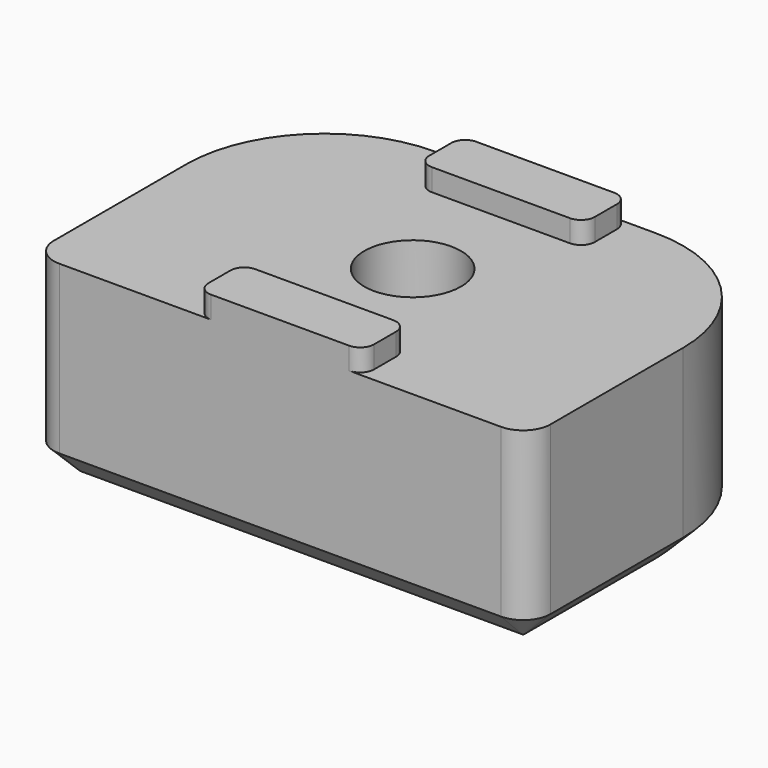
from build123d import *

# Parameters (mm, degrees)
SKETCH_R     = 1.75
PAD_DEPTH    = 7
PAD001_DEPTH = 0.8
SKETCH002_R  = 3
POCKET_DEPTH = 4.4
SKETCH003_R  = 3
SKETCH003_W  = 3.5
SKETCH003_H  = 3.5
PAD002_DEPTH = 0.2
PAD003_DEPTH = 0.2
CHAMFER_SIZE = 0.95


with BuildPart() as part:
    # Sketch → Pad (new body)
    with BuildSketch(Plane.XY):
        with BuildLine():
            Line((18, 1), (18, 7))
            ThreePointArc((18, 7), (16.535534, 10.535534), (13, 12))
            Line((13, 12), (5, 12))
            ThreePointArc((5, 12), (1.464466, 10.535534), (0, 7))
            Line((0, 7), (0, 1))
            ThreePointArc((0, 1), (0.292893, 0.292893), (1, 0))
            Line((1, 0), (17, 0))
            ThreePointArc((17, 0), (17.707107, 0.292893), (18, 1))
        make_face()
        with Locations((9, 6)):
            Circle(SKETCH_R, mode=Mode.SUBTRACT)
    extrude(amount=PAD_DEPTH)

    # Sketch001 (on Face11 of Pad) → Pad001 (join)
    with BuildSketch(Plane.XY.offset(7)):
        with BuildLine():
            Line((6, 11.5), (6, 10.5))
            ThreePointArc((6, 10.5), (6.146447, 10.146447), (6.5, 10))
            Line((6.5, 10), (11.5, 10))
            ThreePointArc((11.5, 10), (11.853553, 10.146447), (12, 10.5))
            Line((12, 10.5), (12, 11.5))
            ThreePointArc((12, 11.5), (11.853553, 11.853553), (11.5, 12))
            Line((11.5, 12), (6.5, 12))
            ThreePointArc((6.5, 12), (6.146447, 11.853553), (6, 11.5))
        make_face()
        with BuildLine():
            Line((6, 1.5), (6, 0.5))
            ThreePointArc((6, 0.5), (6.146447, 0.146447), (6.5, 0))
            Line((6.5, 0), (11.5, 0))
            ThreePointArc((11.5, 0), (11.853553, 0.146447), (12, 0.5))
            Line((12, 0.5), (12, 1.5))
            ThreePointArc((12, 1.5), (11.853553, 1.853553), (11.5, 2))
            Line((11.5, 2), (6.5, 2))
            ThreePointArc((6.5, 2), (6.146447, 1.853553), (6, 1.5))
        make_face()
    extrude(amount=PAD001_DEPTH)

    # Sketch002 (on Face4 of Pad001) → Pocket (cut)
    with BuildSketch(Plane(origin=(0, 0, 0), x_dir=(1, 0, 0), z_dir=(0, 0, -1))):
        with Locations((9, -6)):
            Circle(SKETCH002_R)
    extrude(amount=-POCKET_DEPTH, mode=Mode.SUBTRACT)

    # Sketch003 (on Face29 of Pocket) → Pad002 (join)
    with BuildSketch(Plane(origin=(0, 0, 4.4), x_dir=(1, 0, 0), z_dir=(0, 0, -1))):
        with Locations((9, -6)):
            Circle(SKETCH003_R)
        with Locations((9, -6)):
            Rectangle(SKETCH003_W, SKETCH003_H, mode=Mode.SUBTRACT)
    extrude(amount=PAD002_DEPTH)

    # Sketch004 (on Face29 of Pad002) → Pad003 (join)
    with BuildSketch(Plane(origin=(0, 0, 4.2), x_dir=(1, 0, 0), z_dir=(0, 0, -1))):
        with BuildLine():
            ThreePointArc((11.436699, -4.25), (9, -3), (6.563301, -4.25))
            Line((6.563301, -4.25), (11.436699, -4.25))
        make_face()
        with BuildLine():
            ThreePointArc((6.563301, -7.75), (9, -9), (11.436699, -7.75))
            Line((6.563301, -7.75), (11.436699, -7.75))
        make_face()
    extrude(amount=PAD003_DEPTH)

    # Chamfer
    chamfer_edges = [part.edges().sort_by_distance(p)[0] for p in [
        (0.292893, 0.292893, 0),
    ]]
    chamfer(chamfer_edges, length=CHAMFER_SIZE)


solid = part.part
